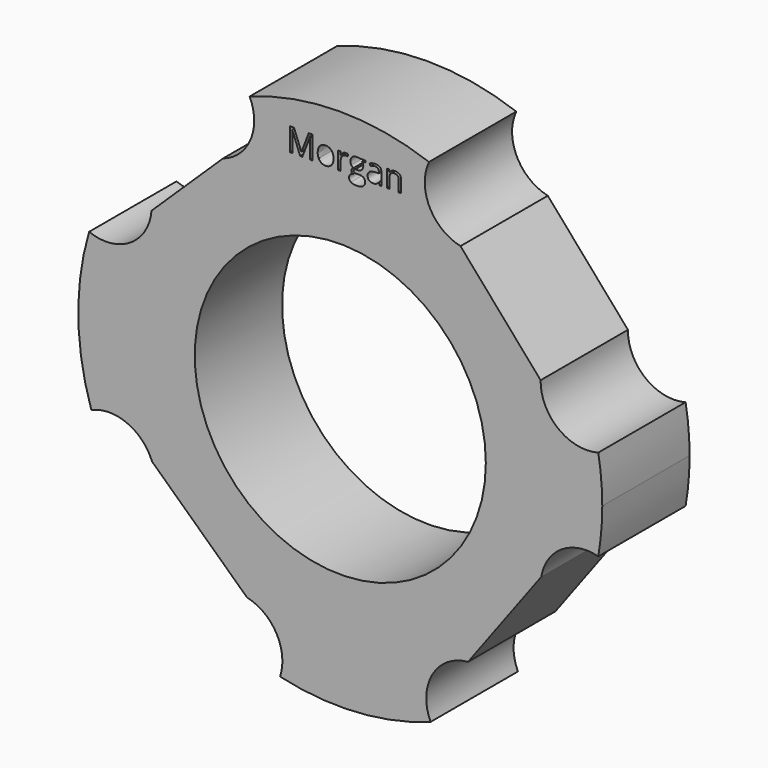
from build123d import *

# Parameters (mm, degrees)
F0_R     = 6.35
F1_DEPTH = 4.7625
F2_DEPTH = 25.4


with BuildPart() as f1:
    # F0 (on Front) → F1 (new body)
    with BuildSketch(Plane.XZ):
        with BuildLine():
            ThreePointArc((11.2547772233, -1.9937125303), (11.3861100395, -1.0006988402), (11.43, 0))
            ThreePointArc((11.43, 0), (11.3861767157, 0.9999398976), (11.2550429048, 1.9922121399))
            ThreePointArc((11.2550429048, 1.9922121399), (9.5077416518, 2.3466554959), (8.7401445125, 3.9558436121))
            Line((8.7401445125, 3.9558436121), (5.2445323902, 7.9691673828))
            ThreePointArc((5.2445323902, 7.9691673828), (3.8919832646, 9.03376176), (3.8700545329, 10.7548862343))
            ThreePointArc((3.8700545329, 10.7548862343), (-0.0448467807, 11.4299120192), (-3.9543305317, 10.7241862184))
            ThreePointArc((-3.9543305317, 10.7241862184), (-3.8063812677, 10.3017976324), (-3.7562249365, 9.8570668772))
            ThreePointArc((-3.7562249365, 9.8570668772), (-4.1328369917, 8.6899434604), (-5.1206069297, 7.9630842858))
            Line((-5.1206069297, 7.9630842858), (-8.2350926564, 4.9456995009))
            ThreePointArc((-8.2350926564, 4.9456995009), (-9.1698938691, 3.4126336267), (-10.9581290291, 3.2502781699))
            ThreePointArc((-10.9581290291, 3.2502781699), (-11.4288459698, -0.1624185874), (-10.8613410965, -3.5603608785))
            ThreePointArc((-10.8613410965, -3.5603608785), (-9.2976048991, -3.5574085436), (-8.2112613899, -4.6821918078))
            Line((-8.2112613899, -4.6821918078), (-4.0708098089, -8.5523168537))
            ThreePointArc((-4.0708098089, -8.5523168537), (-2.9586925217, -9.2552394072), (-2.525265834, -10.4974335478))
            ThreePointArc((-2.525265834, -10.4974335478), (-2.5506576435, -10.8148581144), (-2.6261872846, -11.1242096504))
            ThreePointArc((-2.6261872846, -11.1242096504), (0.6860271726, -11.4093937928), (3.9402061671, -10.7293837363))
            ThreePointArc((3.9402061671, -10.7293837363), (4.0164960731, -8.8842506231), (5.5732152973, -7.8907912065))
            Line((5.5732152973, -7.8907912065), (8.7672680273, -3.58895527))
            ThreePointArc((8.7672680273, -3.58895527), (9.6581605842, -2.2411056807), (11.2547772233, -1.9937125303))
        make_face()
        Circle(F0_R, mode=Mode.SUBTRACT)
        with BuildLine():
            Line((-1.656647458, 9.1549511552), (-1.7505671124, 9.1549511552))
            Line((-1.7505671124, 9.1549511552), (-2.090696702, 10.0436768571))
            Line((-2.090696702, 10.0436768571), (-2.0961826632, 10.0436768571))
            add(Edge.make_bspline(
                [(-2.0961826632, 10.0436768571), (-2.0865273716, 9.9381269651), (-2.0865273716, 9.7926392761)],
                knots=[0, 0, 0, 1, 1, 1], degree=2))
            Line((-2.0865273716, 9.7926392761), (-2.0865273716, 9.1549511552))
            Line((-2.0865273716, 9.1549511552), (-2.194271648, 9.1549511552))
            Line((-2.194271648, 9.1549511552), (-2.194271648, 10.1575654101))
            Line((-2.194271648, 10.1575654101), (-2.0187208921, 10.1575654101))
            Line((-2.0187208921, 10.1575654101), (-1.7011934623, 9.3305019111))
            Line((-1.7011934623, 9.3305019111), (-1.6957075012, 9.3305019111))
            Line((-1.6957075012, 9.3305019111), (-1.37554681, 10.1575654101))
            Line((-1.37554681, 10.1575654101), (-1.2013126848, 10.1575654101))
            Line((-1.2013126848, 10.1575654101), (-1.2013126848, 9.1549511552))
            Line((-1.2013126848, 9.1549511552), (-1.317834499, 9.1549511552))
            Line((-1.317834499, 9.1549511552), (-1.317834499, 9.8009779371))
            add(Edge.make_bspline(
                [(-1.317834499, 9.8009779371), (-1.317834499, 9.9120137902), (-1.3081792074, 10.0423602265)],
                knots=[0, 0, 0, 1, 1, 1], degree=2))
            Line((-1.3081792074, 10.0423602265), (-1.3136651686, 10.0423602265))
            Line((-1.3136651686, 10.0423602265), (-1.656647458, 9.1549511552))
        make_face(mode=Mode.SUBTRACT)
        with BuildLine():
            add(Edge.make_bspline(
                [(-0.3877446502, 9.8153511552), (-0.2948124688, 9.7103498593), (-0.2948124688, 9.5315075267)],
                knots=[0, 0, 0, 1, 1, 1], degree=2))
            add(Edge.make_bspline(
                [(-0.2948124688, 9.5315075267), (-0.2948124688, 9.3476181098), (-0.3873057733, 9.2443723215)],
                knots=[0, 0, 0, 1, 1, 1], degree=2))
            add(Edge.make_bspline(
                [(-0.3873057733, 9.2443723215), (-0.4797990779, 9.1411265332), (-0.6430612809, 9.1411265332)],
                knots=[0, 0, 0, 1, 1, 1], degree=2))
            add(Edge.make_bspline(
                [(-0.6430612809, 9.1411265332), (-0.7440029655, 9.1411265332), (-0.8221230519, 9.1885252373)],
                knots=[0, 0, 0, 1, 1, 1], degree=2))
            add(Edge.make_bspline(
                [(-0.8221230519, 9.1885252373), (-0.9002431383, 9.2359239414), (-0.9428141966, 9.3243576347)],
                knots=[0, 0, 0, 1, 1, 1], degree=2))
            add(Edge.make_bspline(
                [(-0.9428141966, 9.3243576347), (-0.985385255, 9.412791328), (-0.985385255, 9.5315075267)],
                knots=[0, 0, 0, 1, 1, 1], degree=2))
            add(Edge.make_bspline(
                [(-0.985385255, 9.5315075267), (-0.985385255, 9.7151775051), (-0.8934405465, 9.8177649781)],
                knots=[0, 0, 0, 1, 1, 1], degree=2))
            add(Edge.make_bspline(
                [(-0.8934405465, 9.8177649781), (-0.8014958381, 9.9203524511), (-0.6382336351, 9.9203524511)],
                knots=[0, 0, 0, 1, 1, 1], degree=2))
            add(Edge.make_bspline(
                [(-0.6382336351, 9.9203524511), (-0.4806768316, 9.9203524511), (-0.3877446502, 9.8153511552)],
                knots=[0, 0, 0, 1, 1, 1], degree=2))
        make_face(mode=Mode.SUBTRACT)
        with BuildLine():
            add(Edge.make_bspline(
                [(0.1181706846, 9.8805243733), (0.1771996263, 9.9203524511), (0.2478588055, 9.9203524511)],
                knots=[0, 0, 0, 1, 1, 1], degree=2))
            add(Edge.make_bspline(
                [(0.2478588055, 9.9203524511), (0.297890771, 9.9203524511), (0.3376091295, 9.9120137902)],
                knots=[0, 0, 0, 1, 1, 1], degree=2))
            Line((0.3376091295, 9.9120137902), (0.3218095615, 9.8064638982))
            add(Edge.make_bspline(
                [(0.3218095615, 9.8064638982), (0.2752886111, 9.8167775051), (0.2395201446, 9.8167775051)],
                knots=[0, 0, 0, 1, 1, 1], degree=2))
            add(Edge.make_bspline(
                [(0.2395201446, 9.8167775051), (0.1482337515, 9.8167775051), (0.0834994103, 9.7427170299)],
                knots=[0, 0, 0, 1, 1, 1], degree=2))
            add(Edge.make_bspline(
                [(0.0834994103, 9.7427170299), (0.018765069, 9.6686565548), (0.018765069, 9.558279017)],
                knots=[0, 0, 0, 1, 1, 1], degree=2))
            Line((0.018765069, 9.558279017), (0.018765069, 9.1549511552))
            Line((0.018765069, 9.1549511552), (-0.0951234839, 9.1549511552))
            Line((-0.0951234839, 9.1549511552), (-0.0951234839, 9.9065278291))
            Line((-0.0951234839, 9.9065278291), (-0.0012038295, 9.9065278291))
            Line((-0.0012038295, 9.9065278291), (0.0119624772, 9.767403855))
            Line((0.0119624772, 9.767403855), (0.0174484383, 9.767403855))
            add(Edge.make_bspline(
                [(0.0174484383, 9.767403855), (0.0591417429, 9.8406962956), (0.1181706846, 9.8805243733)],
                knots=[0, 0, 0, 1, 1, 1], degree=2))
        make_face(mode=Mode.SUBTRACT)
        with BuildLine():
            Line((0.833540015, 9.9065278291), (1.0933551338, 9.9065278291))
            Line((1.0933551338, 9.9065278291), (1.0933551338, 9.8345520191))
            Line((1.0933551338, 9.8345520191), (0.9542311597, 9.8180941358))
            add(Edge.make_bspline(
                [(0.9542311597, 9.8180941358), (0.9733223044, 9.7941753453), (0.9884635571, 9.7553347405)],
                knots=[0, 0, 0, 1, 1, 1], degree=2))
            add(Edge.make_bspline(
                [(0.9884635571, 9.7553347405), (1.0036048098, 9.7164941358), (1.0036048098, 9.6679982394)],
                knots=[0, 0, 0, 1, 1, 1], degree=2))
            add(Edge.make_bspline(
                [(1.0036048098, 9.6679982394), (1.0036048098, 9.5574012632), (0.9281179848, 9.4915697297)],
                knots=[0, 0, 0, 1, 1, 1], degree=2))
            add(Edge.make_bspline(
                [(0.9281179848, 9.4915697297), (0.8526311597, 9.4257381962), (0.7209680928, 9.4257381962)],
                knots=[0, 0, 0, 1, 1, 1], degree=2))
            add(Edge.make_bspline(
                [(0.7209680928, 9.4257381962), (0.6873940107, 9.4257381962), (0.6579892591, 9.4312241574)],
                knots=[0, 0, 0, 1, 1, 1], degree=2))
            add(Edge.make_bspline(
                [(0.6579892591, 9.4312241574), (0.5853551338, 9.3928224295), (0.5853551338, 9.3346712416)],
                knots=[0, 0, 0, 1, 1, 1], degree=2))
            add(Edge.make_bspline(
                [(0.5853551338, 9.3346712416), (0.5853551338, 9.3037304209), (0.6107002742, 9.289028045)],
                knots=[0, 0, 0, 1, 1, 1], degree=2))
            add(Edge.make_bspline(
                [(0.6107002742, 9.289028045), (0.6360454146, 9.2743256692), (0.6977076176, 9.2743256692)],
                knots=[0, 0, 0, 1, 1, 1], degree=2))
            Line((0.6977076176, 9.2743256692), (0.8306873152, 9.2743256692))
            add(Edge.make_bspline(
                [(0.8306873152, 9.2743256692), (0.9529145291, 9.2743256692), (1.0183071856, 9.2228673539)],
                knots=[0, 0, 0, 1, 1, 1], degree=2))
            add(Edge.make_bspline(
                [(1.0183071856, 9.2228673539), (1.0836998422, 9.1714090386), (1.0836998422, 9.0733200537)],
                knots=[0, 0, 0, 1, 1, 1], degree=2))
            add(Edge.make_bspline(
                [(1.0836998422, 9.0733200537), (1.0836998422, 8.9484595785), (0.9836359113, 8.8829572027)],
                knots=[0, 0, 0, 1, 1, 1], degree=2))
            add(Edge.make_bspline(
                [(0.9836359113, 8.8829572027), (0.8835719805, 8.8174548269), (0.6915633412, 8.8174548269)],
                knots=[0, 0, 0, 1, 1, 1], degree=2))
            add(Edge.make_bspline(
                [(0.6915633412, 8.8174548269), (0.5441007062, 8.8174548269), (0.4642251122, 8.8723144381)],
                knots=[0, 0, 0, 1, 1, 1], degree=2))
            add(Edge.make_bspline(
                [(0.4642251122, 8.8723144381), (0.3843495183, 8.9271740494), (0.3843495183, 9.0274574187)],
                knots=[0, 0, 0, 1, 1, 1], degree=2))
            add(Edge.make_bspline(
                [(0.3843495183, 9.0274574187), (0.3843495183, 9.0959222135), (0.4282372072, 9.1460638982)],
                knots=[0, 0, 0, 1, 1, 1], degree=2))
            add(Edge.make_bspline(
                [(0.4282372072, 9.1460638982), (0.4721248962, 9.1962055828), (0.5515616133, 9.2139800969)],
                knots=[0, 0, 0, 1, 1, 1], degree=2))
            add(Edge.make_bspline(
                [(0.5515616133, 9.2139800969), (0.522815177, 9.2269269651), (0.5032851554, 9.2543567707)],
                knots=[0, 0, 0, 1, 1, 1], degree=2))
            add(Edge.make_bspline(
                [(0.5032851554, 9.2543567707), (0.4837551338, 9.2817865764), (0.4837551338, 9.3182133582)],
                knots=[0, 0, 0, 1, 1, 1], degree=2))
            add(Edge.make_bspline(
                [(0.4837551338, 9.3182133582), (0.4837551338, 9.3592483474), (0.5056989783, 9.3901891682)],
                knots=[0, 0, 0, 1, 1, 1], degree=2))
            add(Edge.make_bspline(
                [(0.5056989783, 9.3901891682), (0.5276428228, 9.4211299889), (0.5750415269, 9.4498764252)],
                knots=[0, 0, 0, 1, 1, 1], degree=2))
            add(Edge.make_bspline(
                [(0.5750415269, 9.4498764252), (0.5166709006, 9.4737952157), (0.4800246802, 9.5313978075)],
                knots=[0, 0, 0, 1, 1, 1], degree=2))
            add(Edge.make_bspline(
                [(0.4800246802, 9.5313978075), (0.4433784599, 9.5890003993), (0.4433784599, 9.6631705936)],
                knots=[0, 0, 0, 1, 1, 1], degree=2))
            add(Edge.make_bspline(
                [(0.4433784599, 9.6631705936), (0.4433784599, 9.7864949997), (0.5174389351, 9.8534237254)],
                knots=[0, 0, 0, 1, 1, 1], degree=2))
            add(Edge.make_bspline(
                [(0.5174389351, 9.8534237254), (0.5914994103, 9.9203524511), (0.7271123692, 9.9203524511)],
                knots=[0, 0, 0, 1, 1, 1], degree=2))
            add(Edge.make_bspline(
                [(0.7271123692, 9.9203524511), (0.7861413109, 9.9203524511), (0.833540015, 9.9065278291)],
                knots=[0, 0, 0, 1, 1, 1], degree=2))
        make_face(mode=Mode.SUBTRACT)
        with BuildLine():
            Line((1.7942415269, 9.1549511552), (1.7097577256, 9.1549511552))
            Line((1.7097577256, 9.1549511552), (1.6871555658, 9.2620371163))
            Line((1.6871555658, 9.2620371163), (1.6816696047, 9.2620371163))
            add(Edge.make_bspline(
                [(1.6816696047, 9.2620371163), (1.6254933628, 9.1913779371), (1.5696462785, 9.1662522351)],
                knots=[0, 0, 0, 1, 1, 1], degree=2))
            add(Edge.make_bspline(
                [(1.5696462785, 9.1662522351), (1.5137991943, 9.1411265332), (1.4299737083, 9.1411265332)],
                knots=[0, 0, 0, 1, 1, 1], degree=2))
            add(Edge.make_bspline(
                [(1.4299737083, 9.1411265332), (1.3182795399, 9.1411265332), (1.2548618293, 9.1988388442)],
                knots=[0, 0, 0, 1, 1, 1], degree=2))
            add(Edge.make_bspline(
                [(1.2548618293, 9.1988388442), (1.1914441187, 9.2565511552), (1.1914441187, 9.3627593625)],
                knots=[0, 0, 0, 1, 1, 1], degree=2))
            add(Edge.make_bspline(
                [(1.1914441187, 9.3627593625), (1.1914441187, 9.5903170299), (1.5554924988, 9.6012889522)],
                knots=[0, 0, 0, 1, 1, 1], degree=2))
            Line((1.5554924988, 9.6012889522), (1.6829862353, 9.6054582826))
            Line((1.6829862353, 9.6054582826), (1.6829862353, 9.6521986714))
            add(Edge.make_bspline(
                [(1.6829862353, 9.6521986714), (1.6829862353, 9.7406323647), (1.6450233844, 9.7827645461)],
                knots=[0, 0, 0, 1, 1, 1], degree=2))
            add(Edge.make_bspline(
                [(1.6450233844, 9.7827645461), (1.6070605334, 9.8248967275), (1.5232350474, 9.8248967275)],
                knots=[0, 0, 0, 1, 1, 1], degree=2))
            add(Edge.make_bspline(
                [(1.5232350474, 9.8248967275), (1.429315393, 9.8248967275), (1.3108186327, 9.767403855)],
                knots=[0, 0, 0, 1, 1, 1], degree=2))
            Line((1.3108186327, 9.767403855), (1.2757084815, 9.8545209176))
            add(Edge.make_bspline(
                [(1.2757084815, 9.8545209176), (1.3312264081, 9.8845839846), (1.3973870993, 9.9017001833)],
                knots=[0, 0, 0, 1, 1, 1], degree=2))
            add(Edge.make_bspline(
                [(1.3973870993, 9.9017001833), (1.4635477904, 9.918816382), (1.5302570777, 9.918816382)],
                knots=[0, 0, 0, 1, 1, 1], degree=2))
            add(Edge.make_bspline(
                [(1.5302570777, 9.918816382), (1.664553406, 9.918816382), (1.7293974664, 9.8592388442)],
                knots=[0, 0, 0, 1, 1, 1], degree=2))
            add(Edge.make_bspline(
                [(1.7293974664, 9.8592388442), (1.7942415269, 9.7996613064), (1.7942415269, 9.6679982394)],
                knots=[0, 0, 0, 1, 1, 1], degree=2))
            Line((1.7942415269, 9.6679982394), (1.7942415269, 9.1549511552))
        make_face(mode=Mode.SUBTRACT)
        with BuildLine():
            Line((2.6568540539, 9.1549511552), (2.542965501, 9.1549511552))
            Line((2.542965501, 9.1549511552), (2.542965501, 9.6412267491))
            add(Edge.make_bspline(
                [(2.542965501, 9.6412267491), (2.542965501, 9.7329520191), (2.5011624772, 9.778266058)],
                knots=[0, 0, 0, 1, 1, 1], degree=2))
            add(Edge.make_bspline(
                [(2.5011624772, 9.778266058), (2.4593594535, 9.8235800969), (2.3700480064, 9.8235800969)],
                knots=[0, 0, 0, 1, 1, 1], degree=2))
            add(Edge.make_bspline(
                [(2.3700480064, 9.8235800969), (2.2522095615, 9.8235800969), (2.1973499502, 9.7598332286)],
                knots=[0, 0, 0, 1, 1, 1], degree=2))
            add(Edge.make_bspline(
                [(2.1973499502, 9.7598332286), (2.142490339, 9.6960863604), (2.142490339, 9.5492820407)],
                knots=[0, 0, 0, 1, 1, 1], degree=2))
            Line((2.142490339, 9.5492820407), (2.142490339, 9.1549511552))
            Line((2.142490339, 9.1549511552), (2.0286017861, 9.1549511552))
            Line((2.0286017861, 9.1549511552), (2.0286017861, 9.9065278291))
            Line((2.0286017861, 9.9065278291), (2.1212048098, 9.9065278291))
            Line((2.1212048098, 9.9065278291), (2.1396376392, 9.8036111984))
            Line((2.1396376392, 9.8036111984), (2.1451236003, 9.8036111984))
            add(Edge.make_bspline(
                [(2.1451236003, 9.8036111984), (2.1802337515, 9.859129125), (2.2433223044, 9.889740788)],
                knots=[0, 0, 0, 1, 1, 1], degree=2))
            add(Edge.make_bspline(
                [(2.2433223044, 9.889740788), (2.3064108574, 9.9203524511), (2.3838726284, 9.9203524511)],
                knots=[0, 0, 0, 1, 1, 1], degree=2))
            add(Edge.make_bspline(
                [(2.3838726284, 9.9203524511), (2.5197050258, 9.9203524511), (2.5882795399, 9.8548500753)],
                knots=[0, 0, 0, 1, 1, 1], degree=2))
            add(Edge.make_bspline(
                [(2.5882795399, 9.8548500753), (2.6568540539, 9.7893476995), (2.6568540539, 9.6451766412)],
                knots=[0, 0, 0, 1, 1, 1], degree=2))
            Line((2.6568540539, 9.6451766412), (2.6568540539, 9.1549511552))
        make_face(mode=Mode.SUBTRACT)
    extrude(amount=F1_DEPTH)

    # F0 (on Front) → F2 (cut)
    with BuildSketch(Plane.XZ):
        with BuildLine():
            ThreePointArc((11.2547772233, -1.9937125303), (11.3861100395, -1.0006988402), (11.43, 0))
            ThreePointArc((11.43, 0), (11.3861767157, 0.9999398976), (11.2550429048, 1.9922121399))
            ThreePointArc((11.2550429048, 1.9922121399), (9.5077416518, 2.3466554959), (8.7401445125, 3.9558436121))
            Line((8.7401445125, 3.9558436121), (5.2445323902, 7.9691673828))
            ThreePointArc((5.2445323902, 7.9691673828), (3.8919832646, 9.03376176), (3.8700545329, 10.7548862343))
            ThreePointArc((3.8700545329, 10.7548862343), (-0.0448467807, 11.4299120192), (-3.9543305317, 10.7241862184))
            ThreePointArc((-3.9543305317, 10.7241862184), (-3.8063812677, 10.3017976324), (-3.7562249365, 9.8570668772))
            ThreePointArc((-3.7562249365, 9.8570668772), (-4.1328369917, 8.6899434604), (-5.1206069297, 7.9630842858))
            Line((-5.1206069297, 7.9630842858), (-8.2350926564, 4.9456995009))
            ThreePointArc((-8.2350926564, 4.9456995009), (-9.1698938691, 3.4126336267), (-10.9581290291, 3.2502781699))
            ThreePointArc((-10.9581290291, 3.2502781699), (-11.4288459698, -0.1624185874), (-10.8613410965, -3.5603608785))
            ThreePointArc((-10.8613410965, -3.5603608785), (-9.2976048991, -3.5574085436), (-8.2112613899, -4.6821918078))
            Line((-8.2112613899, -4.6821918078), (-4.0708098089, -8.5523168537))
            ThreePointArc((-4.0708098089, -8.5523168537), (-2.9586925217, -9.2552394072), (-2.525265834, -10.4974335478))
            ThreePointArc((-2.525265834, -10.4974335478), (-2.5506576435, -10.8148581144), (-2.6261872846, -11.1242096504))
            ThreePointArc((-2.6261872846, -11.1242096504), (0.6860271726, -11.4093937928), (3.9402061671, -10.7293837363))
            ThreePointArc((3.9402061671, -10.7293837363), (4.0164960731, -8.8842506231), (5.5732152973, -7.8907912065))
            Line((5.5732152973, -7.8907912065), (8.7672680273, -3.58895527))
            ThreePointArc((8.7672680273, -3.58895527), (9.6581605842, -2.2411056807), (11.2547772233, -1.9937125303))
        make_face()
        Circle(F0_R, mode=Mode.SUBTRACT)
        with BuildLine():
            Line((-1.656647458, 9.1549511552), (-1.7505671124, 9.1549511552))
            Line((-1.7505671124, 9.1549511552), (-2.090696702, 10.0436768571))
            Line((-2.090696702, 10.0436768571), (-2.0961826632, 10.0436768571))
            add(Edge.make_bspline(
                [(-2.0961826632, 10.0436768571), (-2.0865273716, 9.9381269651), (-2.0865273716, 9.7926392761)],
                knots=[0, 0, 0, 1, 1, 1], degree=2))
            Line((-2.0865273716, 9.7926392761), (-2.0865273716, 9.1549511552))
            Line((-2.0865273716, 9.1549511552), (-2.194271648, 9.1549511552))
            Line((-2.194271648, 9.1549511552), (-2.194271648, 10.1575654101))
            Line((-2.194271648, 10.1575654101), (-2.0187208921, 10.1575654101))
            Line((-2.0187208921, 10.1575654101), (-1.7011934623, 9.3305019111))
            Line((-1.7011934623, 9.3305019111), (-1.6957075012, 9.3305019111))
            Line((-1.6957075012, 9.3305019111), (-1.37554681, 10.1575654101))
            Line((-1.37554681, 10.1575654101), (-1.2013126848, 10.1575654101))
            Line((-1.2013126848, 10.1575654101), (-1.2013126848, 9.1549511552))
            Line((-1.2013126848, 9.1549511552), (-1.317834499, 9.1549511552))
            Line((-1.317834499, 9.1549511552), (-1.317834499, 9.8009779371))
            add(Edge.make_bspline(
                [(-1.317834499, 9.8009779371), (-1.317834499, 9.9120137902), (-1.3081792074, 10.0423602265)],
                knots=[0, 0, 0, 1, 1, 1], degree=2))
            Line((-1.3081792074, 10.0423602265), (-1.3136651686, 10.0423602265))
            Line((-1.3136651686, 10.0423602265), (-1.656647458, 9.1549511552))
        make_face(mode=Mode.SUBTRACT)
        with BuildLine():
            add(Edge.make_bspline(
                [(-0.3877446502, 9.8153511552), (-0.2948124688, 9.7103498593), (-0.2948124688, 9.5315075267)],
                knots=[0, 0, 0, 1, 1, 1], degree=2))
            add(Edge.make_bspline(
                [(-0.2948124688, 9.5315075267), (-0.2948124688, 9.3476181098), (-0.3873057733, 9.2443723215)],
                knots=[0, 0, 0, 1, 1, 1], degree=2))
            add(Edge.make_bspline(
                [(-0.3873057733, 9.2443723215), (-0.4797990779, 9.1411265332), (-0.6430612809, 9.1411265332)],
                knots=[0, 0, 0, 1, 1, 1], degree=2))
            add(Edge.make_bspline(
                [(-0.6430612809, 9.1411265332), (-0.7440029655, 9.1411265332), (-0.8221230519, 9.1885252373)],
                knots=[0, 0, 0, 1, 1, 1], degree=2))
            add(Edge.make_bspline(
                [(-0.8221230519, 9.1885252373), (-0.9002431383, 9.2359239414), (-0.9428141966, 9.3243576347)],
                knots=[0, 0, 0, 1, 1, 1], degree=2))
            add(Edge.make_bspline(
                [(-0.9428141966, 9.3243576347), (-0.985385255, 9.412791328), (-0.985385255, 9.5315075267)],
                knots=[0, 0, 0, 1, 1, 1], degree=2))
            add(Edge.make_bspline(
                [(-0.985385255, 9.5315075267), (-0.985385255, 9.7151775051), (-0.8934405465, 9.8177649781)],
                knots=[0, 0, 0, 1, 1, 1], degree=2))
            add(Edge.make_bspline(
                [(-0.8934405465, 9.8177649781), (-0.8014958381, 9.9203524511), (-0.6382336351, 9.9203524511)],
                knots=[0, 0, 0, 1, 1, 1], degree=2))
            add(Edge.make_bspline(
                [(-0.6382336351, 9.9203524511), (-0.4806768316, 9.9203524511), (-0.3877446502, 9.8153511552)],
                knots=[0, 0, 0, 1, 1, 1], degree=2))
        make_face(mode=Mode.SUBTRACT)
        with BuildLine():
            add(Edge.make_bspline(
                [(0.1181706846, 9.8805243733), (0.1771996263, 9.9203524511), (0.2478588055, 9.9203524511)],
                knots=[0, 0, 0, 1, 1, 1], degree=2))
            add(Edge.make_bspline(
                [(0.2478588055, 9.9203524511), (0.297890771, 9.9203524511), (0.3376091295, 9.9120137902)],
                knots=[0, 0, 0, 1, 1, 1], degree=2))
            Line((0.3376091295, 9.9120137902), (0.3218095615, 9.8064638982))
            add(Edge.make_bspline(
                [(0.3218095615, 9.8064638982), (0.2752886111, 9.8167775051), (0.2395201446, 9.8167775051)],
                knots=[0, 0, 0, 1, 1, 1], degree=2))
            add(Edge.make_bspline(
                [(0.2395201446, 9.8167775051), (0.1482337515, 9.8167775051), (0.0834994103, 9.7427170299)],
                knots=[0, 0, 0, 1, 1, 1], degree=2))
            add(Edge.make_bspline(
                [(0.0834994103, 9.7427170299), (0.018765069, 9.6686565548), (0.018765069, 9.558279017)],
                knots=[0, 0, 0, 1, 1, 1], degree=2))
            Line((0.018765069, 9.558279017), (0.018765069, 9.1549511552))
            Line((0.018765069, 9.1549511552), (-0.0951234839, 9.1549511552))
            Line((-0.0951234839, 9.1549511552), (-0.0951234839, 9.9065278291))
            Line((-0.0951234839, 9.9065278291), (-0.0012038295, 9.9065278291))
            Line((-0.0012038295, 9.9065278291), (0.0119624772, 9.767403855))
            Line((0.0119624772, 9.767403855), (0.0174484383, 9.767403855))
            add(Edge.make_bspline(
                [(0.0174484383, 9.767403855), (0.0591417429, 9.8406962956), (0.1181706846, 9.8805243733)],
                knots=[0, 0, 0, 1, 1, 1], degree=2))
        make_face(mode=Mode.SUBTRACT)
        with BuildLine():
            Line((0.833540015, 9.9065278291), (1.0933551338, 9.9065278291))
            Line((1.0933551338, 9.9065278291), (1.0933551338, 9.8345520191))
            Line((1.0933551338, 9.8345520191), (0.9542311597, 9.8180941358))
            add(Edge.make_bspline(
                [(0.9542311597, 9.8180941358), (0.9733223044, 9.7941753453), (0.9884635571, 9.7553347405)],
                knots=[0, 0, 0, 1, 1, 1], degree=2))
            add(Edge.make_bspline(
                [(0.9884635571, 9.7553347405), (1.0036048098, 9.7164941358), (1.0036048098, 9.6679982394)],
                knots=[0, 0, 0, 1, 1, 1], degree=2))
            add(Edge.make_bspline(
                [(1.0036048098, 9.6679982394), (1.0036048098, 9.5574012632), (0.9281179848, 9.4915697297)],
                knots=[0, 0, 0, 1, 1, 1], degree=2))
            add(Edge.make_bspline(
                [(0.9281179848, 9.4915697297), (0.8526311597, 9.4257381962), (0.7209680928, 9.4257381962)],
                knots=[0, 0, 0, 1, 1, 1], degree=2))
            add(Edge.make_bspline(
                [(0.7209680928, 9.4257381962), (0.6873940107, 9.4257381962), (0.6579892591, 9.4312241574)],
                knots=[0, 0, 0, 1, 1, 1], degree=2))
            add(Edge.make_bspline(
                [(0.6579892591, 9.4312241574), (0.5853551338, 9.3928224295), (0.5853551338, 9.3346712416)],
                knots=[0, 0, 0, 1, 1, 1], degree=2))
            add(Edge.make_bspline(
                [(0.5853551338, 9.3346712416), (0.5853551338, 9.3037304209), (0.6107002742, 9.289028045)],
                knots=[0, 0, 0, 1, 1, 1], degree=2))
            add(Edge.make_bspline(
                [(0.6107002742, 9.289028045), (0.6360454146, 9.2743256692), (0.6977076176, 9.2743256692)],
                knots=[0, 0, 0, 1, 1, 1], degree=2))
            Line((0.6977076176, 9.2743256692), (0.8306873152, 9.2743256692))
            add(Edge.make_bspline(
                [(0.8306873152, 9.2743256692), (0.9529145291, 9.2743256692), (1.0183071856, 9.2228673539)],
                knots=[0, 0, 0, 1, 1, 1], degree=2))
            add(Edge.make_bspline(
                [(1.0183071856, 9.2228673539), (1.0836998422, 9.1714090386), (1.0836998422, 9.0733200537)],
                knots=[0, 0, 0, 1, 1, 1], degree=2))
            add(Edge.make_bspline(
                [(1.0836998422, 9.0733200537), (1.0836998422, 8.9484595785), (0.9836359113, 8.8829572027)],
                knots=[0, 0, 0, 1, 1, 1], degree=2))
            add(Edge.make_bspline(
                [(0.9836359113, 8.8829572027), (0.8835719805, 8.8174548269), (0.6915633412, 8.8174548269)],
                knots=[0, 0, 0, 1, 1, 1], degree=2))
            add(Edge.make_bspline(
                [(0.6915633412, 8.8174548269), (0.5441007062, 8.8174548269), (0.4642251122, 8.8723144381)],
                knots=[0, 0, 0, 1, 1, 1], degree=2))
            add(Edge.make_bspline(
                [(0.4642251122, 8.8723144381), (0.3843495183, 8.9271740494), (0.3843495183, 9.0274574187)],
                knots=[0, 0, 0, 1, 1, 1], degree=2))
            add(Edge.make_bspline(
                [(0.3843495183, 9.0274574187), (0.3843495183, 9.0959222135), (0.4282372072, 9.1460638982)],
                knots=[0, 0, 0, 1, 1, 1], degree=2))
            add(Edge.make_bspline(
                [(0.4282372072, 9.1460638982), (0.4721248962, 9.1962055828), (0.5515616133, 9.2139800969)],
                knots=[0, 0, 0, 1, 1, 1], degree=2))
            add(Edge.make_bspline(
                [(0.5515616133, 9.2139800969), (0.522815177, 9.2269269651), (0.5032851554, 9.2543567707)],
                knots=[0, 0, 0, 1, 1, 1], degree=2))
            add(Edge.make_bspline(
                [(0.5032851554, 9.2543567707), (0.4837551338, 9.2817865764), (0.4837551338, 9.3182133582)],
                knots=[0, 0, 0, 1, 1, 1], degree=2))
            add(Edge.make_bspline(
                [(0.4837551338, 9.3182133582), (0.4837551338, 9.3592483474), (0.5056989783, 9.3901891682)],
                knots=[0, 0, 0, 1, 1, 1], degree=2))
            add(Edge.make_bspline(
                [(0.5056989783, 9.3901891682), (0.5276428228, 9.4211299889), (0.5750415269, 9.4498764252)],
                knots=[0, 0, 0, 1, 1, 1], degree=2))
            add(Edge.make_bspline(
                [(0.5750415269, 9.4498764252), (0.5166709006, 9.4737952157), (0.4800246802, 9.5313978075)],
                knots=[0, 0, 0, 1, 1, 1], degree=2))
            add(Edge.make_bspline(
                [(0.4800246802, 9.5313978075), (0.4433784599, 9.5890003993), (0.4433784599, 9.6631705936)],
                knots=[0, 0, 0, 1, 1, 1], degree=2))
            add(Edge.make_bspline(
                [(0.4433784599, 9.6631705936), (0.4433784599, 9.7864949997), (0.5174389351, 9.8534237254)],
                knots=[0, 0, 0, 1, 1, 1], degree=2))
            add(Edge.make_bspline(
                [(0.5174389351, 9.8534237254), (0.5914994103, 9.9203524511), (0.7271123692, 9.9203524511)],
                knots=[0, 0, 0, 1, 1, 1], degree=2))
            add(Edge.make_bspline(
                [(0.7271123692, 9.9203524511), (0.7861413109, 9.9203524511), (0.833540015, 9.9065278291)],
                knots=[0, 0, 0, 1, 1, 1], degree=2))
        make_face(mode=Mode.SUBTRACT)
        with BuildLine():
            Line((1.7942415269, 9.1549511552), (1.7097577256, 9.1549511552))
            Line((1.7097577256, 9.1549511552), (1.6871555658, 9.2620371163))
            Line((1.6871555658, 9.2620371163), (1.6816696047, 9.2620371163))
            add(Edge.make_bspline(
                [(1.6816696047, 9.2620371163), (1.6254933628, 9.1913779371), (1.5696462785, 9.1662522351)],
                knots=[0, 0, 0, 1, 1, 1], degree=2))
            add(Edge.make_bspline(
                [(1.5696462785, 9.1662522351), (1.5137991943, 9.1411265332), (1.4299737083, 9.1411265332)],
                knots=[0, 0, 0, 1, 1, 1], degree=2))
            add(Edge.make_bspline(
                [(1.4299737083, 9.1411265332), (1.3182795399, 9.1411265332), (1.2548618293, 9.1988388442)],
                knots=[0, 0, 0, 1, 1, 1], degree=2))
            add(Edge.make_bspline(
                [(1.2548618293, 9.1988388442), (1.1914441187, 9.2565511552), (1.1914441187, 9.3627593625)],
                knots=[0, 0, 0, 1, 1, 1], degree=2))
            add(Edge.make_bspline(
                [(1.1914441187, 9.3627593625), (1.1914441187, 9.5903170299), (1.5554924988, 9.6012889522)],
                knots=[0, 0, 0, 1, 1, 1], degree=2))
            Line((1.5554924988, 9.6012889522), (1.6829862353, 9.6054582826))
            Line((1.6829862353, 9.6054582826), (1.6829862353, 9.6521986714))
            add(Edge.make_bspline(
                [(1.6829862353, 9.6521986714), (1.6829862353, 9.7406323647), (1.6450233844, 9.7827645461)],
                knots=[0, 0, 0, 1, 1, 1], degree=2))
            add(Edge.make_bspline(
                [(1.6450233844, 9.7827645461), (1.6070605334, 9.8248967275), (1.5232350474, 9.8248967275)],
                knots=[0, 0, 0, 1, 1, 1], degree=2))
            add(Edge.make_bspline(
                [(1.5232350474, 9.8248967275), (1.429315393, 9.8248967275), (1.3108186327, 9.767403855)],
                knots=[0, 0, 0, 1, 1, 1], degree=2))
            Line((1.3108186327, 9.767403855), (1.2757084815, 9.8545209176))
            add(Edge.make_bspline(
                [(1.2757084815, 9.8545209176), (1.3312264081, 9.8845839846), (1.3973870993, 9.9017001833)],
                knots=[0, 0, 0, 1, 1, 1], degree=2))
            add(Edge.make_bspline(
                [(1.3973870993, 9.9017001833), (1.4635477904, 9.918816382), (1.5302570777, 9.918816382)],
                knots=[0, 0, 0, 1, 1, 1], degree=2))
            add(Edge.make_bspline(
                [(1.5302570777, 9.918816382), (1.664553406, 9.918816382), (1.7293974664, 9.8592388442)],
                knots=[0, 0, 0, 1, 1, 1], degree=2))
            add(Edge.make_bspline(
                [(1.7293974664, 9.8592388442), (1.7942415269, 9.7996613064), (1.7942415269, 9.6679982394)],
                knots=[0, 0, 0, 1, 1, 1], degree=2))
            Line((1.7942415269, 9.6679982394), (1.7942415269, 9.1549511552))
        make_face(mode=Mode.SUBTRACT)
        with BuildLine():
            Line((2.6568540539, 9.1549511552), (2.542965501, 9.1549511552))
            Line((2.542965501, 9.1549511552), (2.542965501, 9.6412267491))
            add(Edge.make_bspline(
                [(2.542965501, 9.6412267491), (2.542965501, 9.7329520191), (2.5011624772, 9.778266058)],
                knots=[0, 0, 0, 1, 1, 1], degree=2))
            add(Edge.make_bspline(
                [(2.5011624772, 9.778266058), (2.4593594535, 9.8235800969), (2.3700480064, 9.8235800969)],
                knots=[0, 0, 0, 1, 1, 1], degree=2))
            add(Edge.make_bspline(
                [(2.3700480064, 9.8235800969), (2.2522095615, 9.8235800969), (2.1973499502, 9.7598332286)],
                knots=[0, 0, 0, 1, 1, 1], degree=2))
            add(Edge.make_bspline(
                [(2.1973499502, 9.7598332286), (2.142490339, 9.6960863604), (2.142490339, 9.5492820407)],
                knots=[0, 0, 0, 1, 1, 1], degree=2))
            Line((2.142490339, 9.5492820407), (2.142490339, 9.1549511552))
            Line((2.142490339, 9.1549511552), (2.0286017861, 9.1549511552))
            Line((2.0286017861, 9.1549511552), (2.0286017861, 9.9065278291))
            Line((2.0286017861, 9.9065278291), (2.1212048098, 9.9065278291))
            Line((2.1212048098, 9.9065278291), (2.1396376392, 9.8036111984))
            Line((2.1396376392, 9.8036111984), (2.1451236003, 9.8036111984))
            add(Edge.make_bspline(
                [(2.1451236003, 9.8036111984), (2.1802337515, 9.859129125), (2.2433223044, 9.889740788)],
                knots=[0, 0, 0, 1, 1, 1], degree=2))
            add(Edge.make_bspline(
                [(2.2433223044, 9.889740788), (2.3064108574, 9.9203524511), (2.3838726284, 9.9203524511)],
                knots=[0, 0, 0, 1, 1, 1], degree=2))
            add(Edge.make_bspline(
                [(2.3838726284, 9.9203524511), (2.5197050258, 9.9203524511), (2.5882795399, 9.8548500753)],
                knots=[0, 0, 0, 1, 1, 1], degree=2))
            add(Edge.make_bspline(
                [(2.5882795399, 9.8548500753), (2.6568540539, 9.7893476995), (2.6568540539, 9.6451766412)],
                knots=[0, 0, 0, 1, 1, 1], degree=2))
            Line((2.6568540539, 9.6451766412), (2.6568540539, 9.1549511552))
        make_face(mode=Mode.SUBTRACT)
        with BuildLine():
            ThreePointArc((8.7401445125, 3.9558436121), (9.5077416518, 2.3466554959), (11.2550429048, 1.9922121399))
            ThreePointArc((11.2550429048, 1.9922121399), (10.73659959, 3.9205011471), (9.8904917233, 5.7291424726))
            ThreePointArc((9.8904917233, 5.7291424726), (9.0614314685, 5.0071904915), (8.7401445125, 3.9558436121))
        make_face()
        with BuildLine():
            ThreePointArc((9.8904917233, 5.7291424726), (10.73659959, 3.9205011471), (11.2550429048, 1.9922121399))
            ThreePointArc((11.2550429048, 1.9922121399), (12.3212593208, 2.7056202873), (12.7333674699, 3.9205011471))
            ThreePointArc((12.7333674699, 3.9205011471), (11.8084206933, 5.6052211502), (9.8904917233, 5.7291424726))
        make_face()
        with BuildLine():
            ThreePointArc((12.732844733, -3.9219324068), (12.3208175582, -2.7071571749), (11.2547772233, -1.9937125303))
            ThreePointArc((11.2547772233, -1.9937125303), (10.7360768531, -3.9219324068), (9.8897278843, -5.7304609216))
            ThreePointArc((9.8897278843, -5.7304609216), (11.8077856592, -5.6067238482), (12.732844733, -3.9219324068))
        make_face()
        with BuildLine():
            ThreePointArc((9.8897278843, -5.7304609216), (10.7360768531, -3.9219324068), (11.2547772233, -1.9937125303))
            ThreePointArc((11.2547772233, -1.9937125303), (9.6581605842, -2.2411056807), (8.7672680273, -3.58895527))
            ThreePointArc((8.7672680273, -3.58895527), (8.9675209546, -4.8489124497), (9.8897278843, -5.7304609216))
        make_face()
        with BuildLine():
            ThreePointArc((8.7401445125, 3.9558436121), (9.0614314685, 5.0071904915), (9.8904917233, 5.7291424726))
            ThreePointArc((9.8904917233, 5.7291424726), (8.7400376113, 7.3659108434), (7.321815799, 8.777010505))
            ThreePointArc((7.321815799, 8.777010505), (6.4063773845, 8.0562846747), (5.2445323902, 7.9691673828))
            Line((5.2445323902, 7.9691673828), (8.7401445125, 3.9558436121))
        make_face()
        with BuildLine():
            ThreePointArc((7.3789774272, -8.7290086567), (8.763553384, -7.3379174216), (9.8897278843, -5.7304609216))
            ThreePointArc((9.8897278843, -5.7304609216), (8.9675209546, -4.8489124497), (8.7672680273, -3.58895527))
            Line((8.7672680273, -3.58895527), (5.5732152973, -7.8907912065))
            ThreePointArc((5.5732152973, -7.8907912065), (6.5880105673, -8.0688044577), (7.3789774272, -8.7290086567))
        make_face()
        with BuildLine():
            ThreePointArc((5.2445323902, 7.9691673828), (6.4063773845, 8.0562846747), (7.321815799, 8.777010505))
            ThreePointArc((7.321815799, 8.777010505), (5.6826480167, 9.917278433), (3.8700545329, 10.7548862343))
            ThreePointArc((3.8700545329, 10.7548862343), (3.8919832646, 9.03376176), (5.2445323902, 7.9691673828))
        make_face()
        with BuildLine():
            ThreePointArc((3.8700545329, 10.7548862343), (5.6826480167, 9.917278433), (7.321815799, 8.777010505))
            ThreePointArc((7.321815799, 8.777010505), (7.587919591, 9.3197650906), (7.6794158966, 9.917278433))
            ThreePointArc((7.6794158966, 9.917278433), (6.1114565512, 11.8674592469), (3.8700545329, 10.7548862343))
        make_face()
        with BuildLine():
            ThreePointArc((7.7440589309, -9.8799567598), (7.6506014451, -9.276225437), (7.3789774272, -8.7290086567))
            ThreePointArc((7.3789774272, -8.7290086567), (5.747291051, -9.8799567598), (3.9402061671, -10.7293837363))
            ThreePointArc((3.9402061671, -10.7293837363), (6.1824651046, -11.8287270154), (7.7440589309, -9.8799567598))
        make_face()
        with BuildLine():
            ThreePointArc((3.9402061671, -10.7293837363), (5.747291051, -9.8799567598), (7.3789774272, -8.7290086567))
            ThreePointArc((7.3789774272, -8.7290086567), (6.5880105673, -8.0688044577), (5.5732152973, -7.8907912065))
            ThreePointArc((5.5732152973, -7.8907912065), (4.0164960731, -8.8842506231), (3.9402061671, -10.7293837363))
        make_face()
        with BuildLine():
            ThreePointArc((-3.7562249365, 9.8570668772), (-3.8063812677, 10.3017976324), (-3.9543305317, 10.7241862184))
            ThreePointArc((-3.9543305317, 10.7241862184), (-5.7615150776, 9.8716687551), (-7.3926191732, 8.7174584461))
            ThreePointArc((-7.3926191732, 8.7174584461), (-6.3822013944, 7.962026368), (-5.1206069297, 7.9630842858))
            ThreePointArc((-5.1206069297, 7.9630842858), (-4.1328369917, 8.6899434604), (-3.7562249365, 9.8570668772))
        make_face()
        with BuildLine():
            ThreePointArc((-7.3926191732, 8.7174584461), (-5.7615150776, 9.8716687551), (-3.9543305317, 10.7241862184))
            ThreePointArc((-3.9543305317, 10.7241862184), (-6.7595027242, 11.5816015308), (-7.3926191732, 8.7174584461))
        make_face()
        with BuildLine():
            ThreePointArc((-6.27987461, -9.5502918742), (-5.3120119878, -12.3312864025), (-2.6261872846, -11.1242096504))
            ThreePointArc((-2.6261872846, -11.1242096504), (-4.5220337138, -10.4974335478), (-6.27987461, -9.5502918742))
        make_face()
        with BuildLine():
            ThreePointArc((-6.27987461, -9.5502918742), (-4.5220337138, -10.4974335478), (-2.6261872846, -11.1242096504))
            ThreePointArc((-2.6261872846, -11.1242096504), (-2.5506576435, -10.8148581144), (-2.525265834, -10.4974335478))
            ThreePointArc((-2.525265834, -10.4974335478), (-2.9586925217, -9.2552394072), (-4.0708098089, -8.5523168537))
            ThreePointArc((-4.0708098089, -8.5523168537), (-5.3441045903, -8.6777408704), (-6.27987461, -9.5502918742))
        make_face()
        with BuildLine():
            ThreePointArc((-5.1206069297, 7.9630842858), (-6.3822013944, 7.962026368), (-7.3926191732, 8.7174584461))
            ThreePointArc((-7.3926191732, 8.7174584461), (-8.3412406225, 7.8146404189), (-9.180367408, 6.8092403581))
            ThreePointArc((-9.180367408, 6.8092403581), (-8.4826470477, 6.0825418485), (-8.2285102411, 5.1076988311))
            ThreePointArc((-8.2285102411, 5.1076988311), (-8.2301565236, 5.0266323288), (-8.2350926564, 4.9456995009))
            Line((-8.2350926564, 4.9456995009), (-5.1206069297, 7.9630842858))
        make_face()
        with BuildLine():
            ThreePointArc((-8.9831629793, -7.0673674651), (-7.7318372667, -8.4180515846), (-6.27987461, -9.5502918742))
            ThreePointArc((-6.27987461, -9.5502918742), (-5.3441045903, -8.6777408704), (-4.0708098089, -8.5523168537))
            Line((-4.0708098089, -8.5523168537), (-8.2112613899, -4.6821918078))
            ThreePointArc((-8.2112613899, -4.6821918078), (-8.1125199371, -5.0331472246), (-8.0792362539, -5.3962061392))
            ThreePointArc((-8.0792362539, -5.3962061392), (-8.319696632, -6.3461882051), (-8.9831629793, -7.0673674651))
        make_face()
        with BuildLine():
            ThreePointArc((-8.2285102411, 5.1076988311), (-8.4826470477, 6.0825418485), (-9.180367408, 6.8092403581))
            ThreePointArc((-9.180367408, 6.8092403581), (-10.2252781209, 5.1076988311), (-10.9581290291, 3.2502781699))
            ThreePointArc((-10.9581290291, 3.2502781699), (-9.1698938691, 3.4126336267), (-8.2350926564, 4.9456995009))
            ThreePointArc((-8.2350926564, 4.9456995009), (-8.2301565236, 5.0266323288), (-8.2285102411, 5.1076988311))
        make_face()
        with BuildLine():
            ThreePointArc((-10.9581290291, 3.2502781699), (-10.2252781209, 5.1076988311), (-9.180367408, 6.8092403581))
            ThreePointArc((-9.180367408, 6.8092403581), (-12.0115866874, 5.9999900792), (-10.9581290291, 3.2502781699))
        make_face()
        with BuildLine():
            ThreePointArc((-10.8613410965, -3.5603608785), (-11.8362352284, -6.3388982732), (-8.9831629793, -7.0673674651))
            ThreePointArc((-8.9831629793, -7.0673674651), (-10.0760041338, -5.3962061392), (-10.8613410965, -3.5603608785))
        make_face()
        with BuildLine():
            ThreePointArc((-10.8613410965, -3.5603608785), (-10.0760041338, -5.3962061392), (-8.9831629793, -7.0673674651))
            ThreePointArc((-8.9831629793, -7.0673674651), (-8.319696632, -6.3461882051), (-8.0792362539, -5.3962061392))
            ThreePointArc((-8.0792362539, -5.3962061392), (-8.1125199371, -5.0331472246), (-8.2112613899, -4.6821918078))
            ThreePointArc((-8.2112613899, -4.6821918078), (-9.2976048991, -3.5574085436), (-10.8613410965, -3.5603608785))
        make_face()
    extrude(amount=-F2_DEPTH, mode=Mode.SUBTRACT)


solid = f1.part
